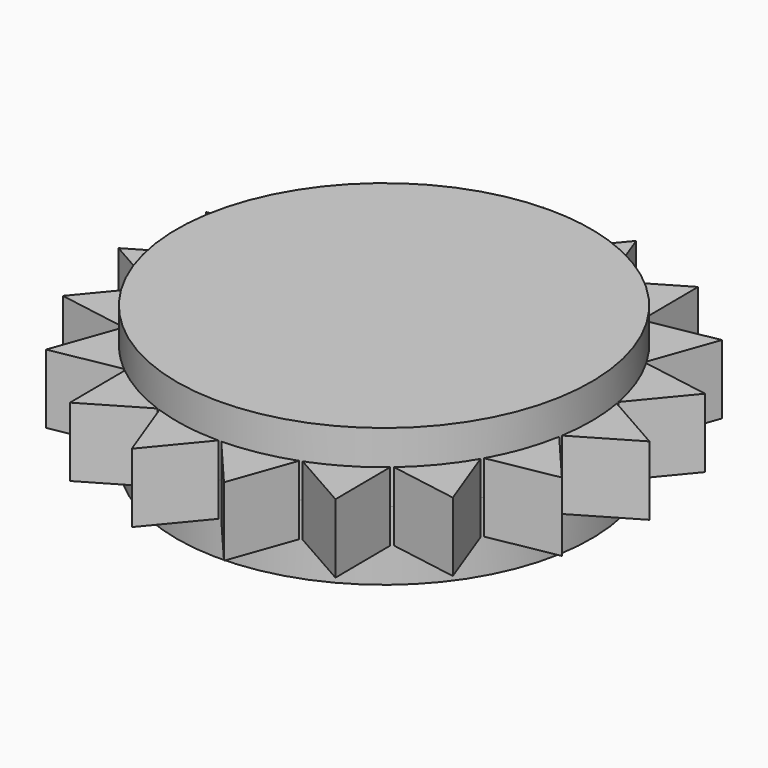
from build123d import *

# Parameters (mm, degrees)
F1_DEPTH = 12.7
F2_DEPTH = 6.35
F3_COUNT = 18


with BuildPart() as f1:
    # F0 (on Top) → F1 (new body, symmetric)
    with BuildSketch(Plane.XY):
        with BuildLine():
            Line((0, 38.1), (12.5223688742, 35.9833333333))
            ThreePointArc((12.5223688742, 35.9833333333), (6.35, 37.5671066227), (0, 38.1))
        make_face()
        with BuildLine():
            ThreePointArc((0, 38.1), (-26.9407683632, -26.9407683632), (38.1, 0))
            ThreePointArc((38.1, 0), (31.054083903, 22.0738277819), (12.5223688742, 35.9833333333))
            Line((12.5223688742, 35.9833333333), (0, 38.1))
        make_face()
    extrude(amount=F1_DEPTH, both=True)


with BuildPart() as f2:
    # F0 (on Top) → F2 (new body, symmetric)
    with BuildSketch(Plane.XY):
        with BuildLine():
            ThreePointArc((0, 38.1), (6.35, 37.5671066227), (12.5223688742, 35.9833333333))
            Line((12.5223688742, 35.9833333333), (8.0942715418, 47.8863562273))
            Line((8.0942715418, 47.8863562273), (0, 38.1))
        make_face()
    extrude(amount=F2_DEPTH, both=True)


with BuildPart() as f3_1:
    # F3: instance of F2
    add(f2.part.rotate(Axis((0, 0, 12.7), (0, 0, 1)), 1 * 360 / F3_COUNT))


with BuildPart() as f3_2:
    # F3: instance of F2
    add(f2.part.rotate(Axis((0, 0, 12.7), (0, 0, 1)), 2 * 360 / F3_COUNT))


with BuildPart() as f3_3:
    # F3: instance of F2
    add(f2.part.rotate(Axis((0, 0, 12.7), (0, 0, 1)), 3 * 360 / F3_COUNT))


with BuildPart() as f3_4:
    # F3: instance of F2
    add(f2.part.rotate(Axis((0, 0, 12.7), (0, 0, 1)), 4 * 360 / F3_COUNT))


with BuildPart() as f3_5:
    # F3: instance of F2
    add(f2.part.rotate(Axis((0, 0, 12.7), (0, 0, 1)), 5 * 360 / F3_COUNT))


with BuildPart() as f3_6:
    # F3: instance of F2
    add(f2.part.rotate(Axis((0, 0, 12.7), (0, 0, 1)), 6 * 360 / F3_COUNT))


with BuildPart() as f3_7:
    # F3: instance of F2
    add(f2.part.rotate(Axis((0, 0, 12.7), (0, 0, 1)), 7 * 360 / F3_COUNT))


with BuildPart() as f3_8:
    # F3: instance of F2
    add(f2.part.rotate(Axis((0, 0, 12.7), (0, 0, 1)), 8 * 360 / F3_COUNT))


with BuildPart() as f3_9:
    # F3: instance of F2
    add(f2.part.rotate(Axis((0, 0, 12.7), (0, 0, 1)), 9 * 360 / F3_COUNT))


with BuildPart() as f3_10:
    # F3: instance of F2
    add(f2.part.rotate(Axis((0, 0, 12.7), (0, 0, 1)), 10 * 360 / F3_COUNT))


with BuildPart() as f3_11:
    # F3: instance of F2
    add(f2.part.rotate(Axis((0, 0, 12.7), (0, 0, 1)), 11 * 360 / F3_COUNT))


with BuildPart() as f3_12:
    # F3: instance of F2
    add(f2.part.rotate(Axis((0, 0, 12.7), (0, 0, 1)), 12 * 360 / F3_COUNT))


with BuildPart() as f3_13:
    # F3: instance of F2
    add(f2.part.rotate(Axis((0, 0, 12.7), (0, 0, 1)), 13 * 360 / F3_COUNT))


with BuildPart() as f3_14:
    # F3: instance of F2
    add(f2.part.rotate(Axis((0, 0, 12.7), (0, 0, 1)), 14 * 360 / F3_COUNT))


with BuildPart() as f3_15:
    # F3: instance of F2
    add(f2.part.rotate(Axis((0, 0, 12.7), (0, 0, 1)), 15 * 360 / F3_COUNT))


with BuildPart() as f3_16:
    # F3: instance of F2
    add(f2.part.rotate(Axis((0, 0, 12.7), (0, 0, 1)), 16 * 360 / F3_COUNT))


with BuildPart() as f3_17:
    # F3: instance of F2
    add(f2.part.rotate(Axis((0, 0, 12.7), (0, 0, 1)), 17 * 360 / F3_COUNT))


solid = Compound([f1.part, f2.part, f3_1.part, f3_2.part, f3_3.part, f3_4.part, f3_5.part, f3_6.part, f3_7.part, f3_8.part, f3_9.part, f3_10.part, f3_11.part, f3_12.part, f3_13.part, f3_14.part, f3_15.part, f3_16.part, f3_17.part])
